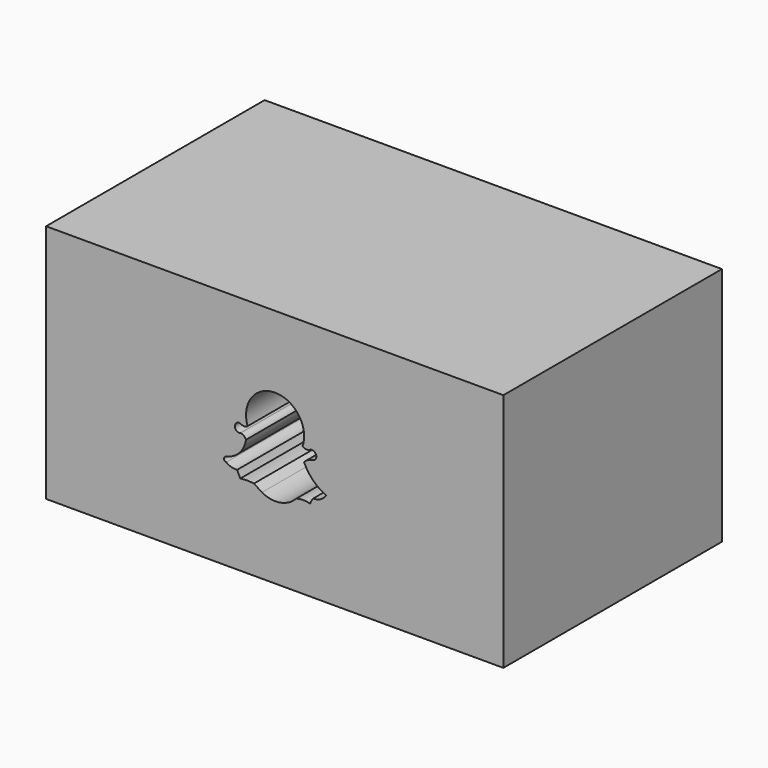
from build123d import *

# Parameters (mm, degrees)
F0_W     = 170.0942516327
F0_H     = 89.2994821072
F1_DEPTH = 25.4
F2_DEPTH = 76.2


with BuildPart() as f1:
    # F0 (on Front) → F1 (new body)
    with BuildSketch(Plane.XZ):
        with Locations((85.0471258163, 44.6497410536)):
            Rectangle(F0_W, F0_H)
        with BuildLine():
            ThreePointArc((74.9545022845, 48.2134371996), (85.1271241874, 62.5276604982), (95.4176932573, 48.2979938388))
            ThreePointArc((95.4176932573, 48.2979938388), (96.8254371893, 47.7076428292), (98.2926860452, 48.1288768351))
            ThreePointArc((98.2926860452, 48.1288768351), (100.4249450606, 47.1206014249), (99.3919447064, 45.0002104044))
            ThreePointArc((99.3919447064, 45.0002104044), (97.5182687326, 44.4420823325), (95.9250405431, 43.3090366423))
            ThreePointArc((95.9250405431, 43.3090366423), (99.2763541876, 38.42353489), (104.12722826, 35.0222922862))
            ThreePointArc((104.12722826, 35.0222922862), (102.103949527, 33.1111018135), (99.3919447064, 32.4855335057))
            ThreePointArc((99.3919447064, 32.4855335057), (98.6920335088, 31.4890303542), (98.2081219554, 30.3715672344))
            ThreePointArc((98.2081219554, 30.3715672344), (95.6290848553, 30.7542950533), (93.0500477552, 30.3715672344))
            ThreePointArc((93.0500477552, 30.3715672344), (87.0298819522, 27.1159679017), (80.2816972136, 28.2576009631))
            ThreePointArc((80.2816972136, 28.2576009631), (78.8075761, 29.2386279669), (77.3221477866, 30.2024483681))
            ThreePointArc((77.3221477866, 30.2024483681), (74.7853890061, 30.3763765326), (72.2486302257, 30.2024483681))
            ThreePointArc((72.2486302257, 30.2024483681), (71.6421232704, 31.4215032907), (71.0648074746, 32.6546505094))
            ThreePointArc((71.0648074746, 32.6546505094), (68.9240610724, 32.8648268661), (67.0059919357, 33.8384695351))
            ThreePointArc((67.0059919357, 33.8384695351), (66.1817870247, 34.768614918), (67.0059919357, 35.6987603009))
            ThreePointArc((67.0059919357, 35.6987603009), (71.900247948, 38.4932298841), (74.362590909, 43.5627140105))
            ThreePointArc((74.362590909, 43.5627140105), (73.550430338, 44.5937957951), (72.3331868649, 45.0847670436))
            ThreePointArc((72.3331868649, 45.0847670436), (70.2142971612, 46.6491021216), (72.3331868649, 48.2134371996))
            ThreePointArc((72.3331868649, 48.2134371996), (73.6438445747, 47.7702684889), (74.9545022845, 48.2134371996))
        make_face(mode=Mode.SUBTRACT)
    extrude(amount=F1_DEPTH)

    # F2 (add): a face of the model
    f2_faces = [f1.faces().sort_by_distance(p)[0] for p in [
        (168.1731464314, -25.4, 44.6497410536),
    ]]
    extrude(f2_faces, amount=F2_DEPTH)


solid = f1.part
